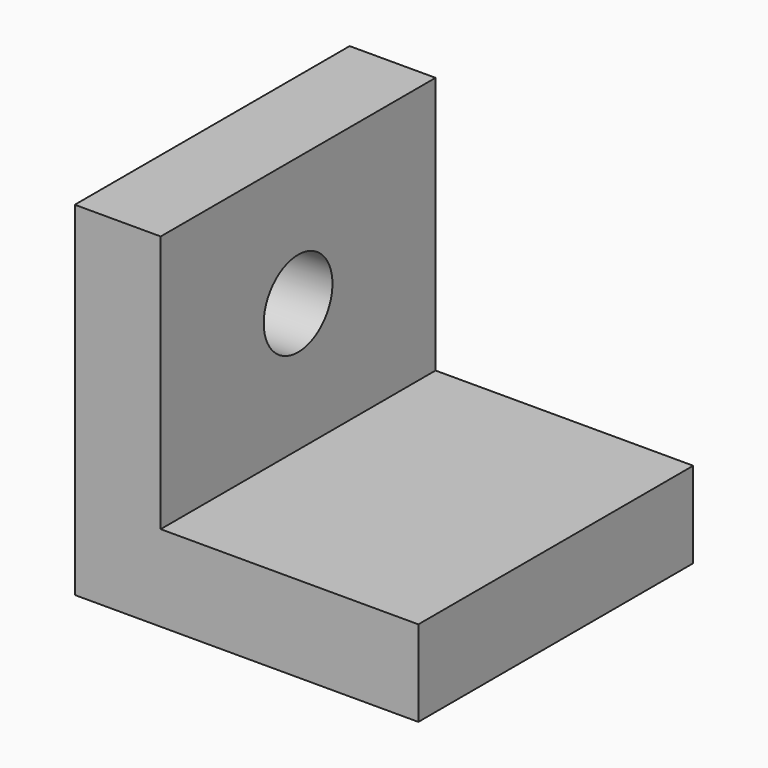
from build123d import *

# Parameters (mm, degrees)
F1_DEPTH = 50.8
F3_D     = 12.7


with BuildPart() as f1:
    # F0 (on Front) → F1 (new body)
    with BuildSketch(Plane.XZ):
        Polygon((-53.063917, 50.8), (-65.763917, 50.8), (-65.763917, 0), (-14.963917, 0), (-14.963917, 12.7), (-53.063917, 12.7), align=None)
    extrude(amount=F1_DEPTH)

    # F3 (through all)
    with Locations(Plane.YZ.offset(-53.063917)):
        with Locations((-25.4, 31.75)):
            Hole(F3_D / 2)


solid = f1.part
